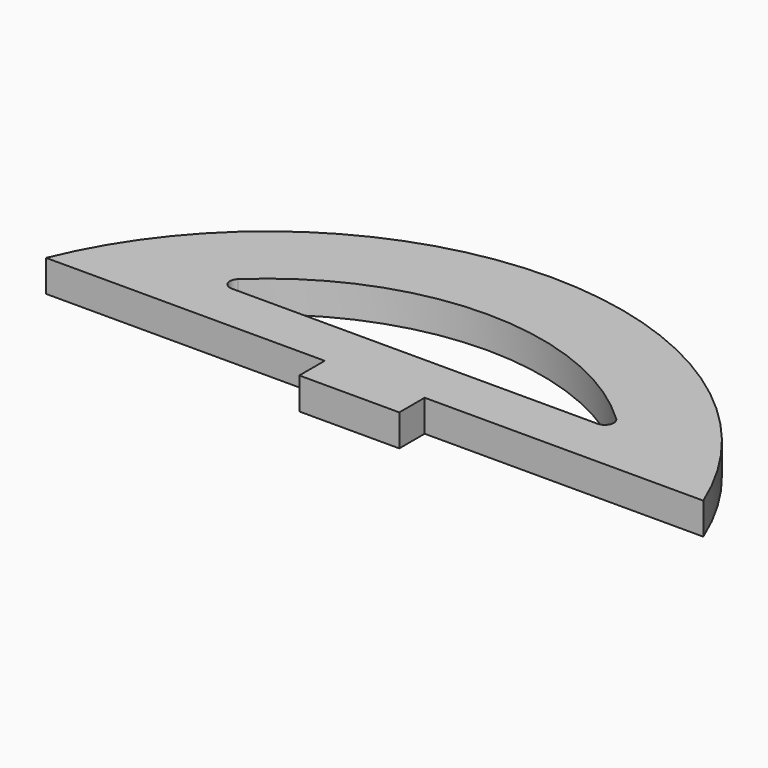
from build123d import *

# Parameters (mm, degrees)
F1_DEPTH = 3.175


with BuildPart() as f1:
    # F0 (on Top) → F1 (new body)
    with BuildSketch(Plane.XY):
        with BuildLine():
            Line((6.795764, 35.712435), (34.670143, 35.712435))
            ThreePointArc((34.670143, 35.712435), (1.795764, 57.804389), (-31.078616, 35.712435))
            Line((-31.078616, 35.712435), (-3.204236, 35.712435))
            Line((-3.204236, 35.712435), (-3.204236, 32.537435))
            Line((-3.204236, 32.537435), (1.795764, 32.537435))
            Line((1.795764, 32.537435), (6.795764, 32.537435))
            Line((6.795764, 32.537435), (6.795764, 35.712435))
        make_face()
        with BuildLine():
            ThreePointArc((-17.124252, 42.26356), (1.795764, 49.804389), (20.71578, 42.26356))
            ThreePointArc((20.71578, 42.26356), (20.932451, 41.27844), (20.097557, 40.712435))
            Line((20.097557, 40.712435), (-16.50603, 40.712435))
            ThreePointArc((-16.50603, 40.712435), (-17.340923, 41.27844), (-17.124252, 42.26356))
        make_face(mode=Mode.SUBTRACT)
    extrude(amount=F1_DEPTH)


solid = f1.part
